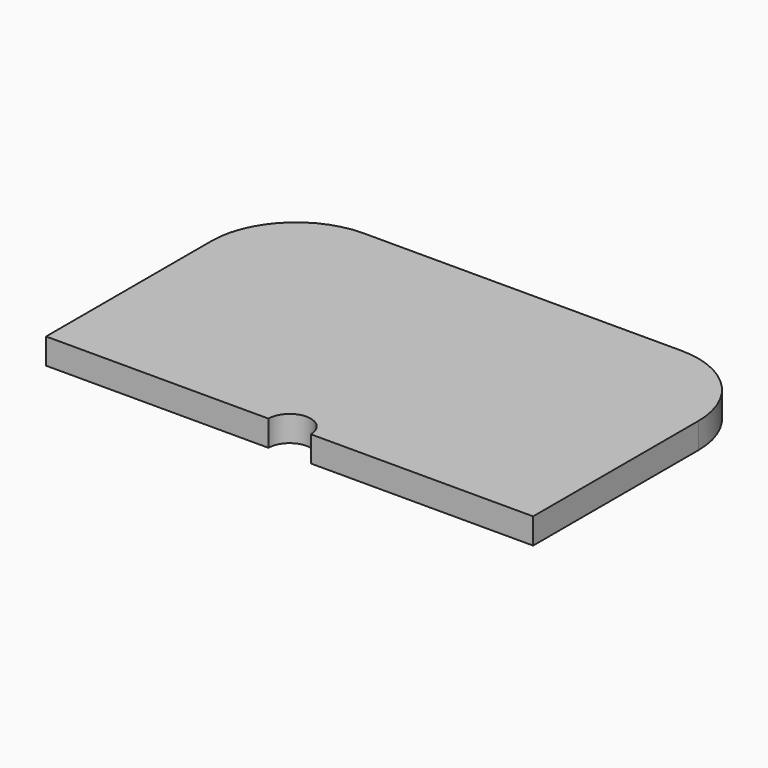
from build123d import *

# Parameters (mm, degrees)
PAD_DEPTH = 15.45


with BuildPart() as part:
    # Sketch → Pad (new body)
    with BuildSketch(Plane.XY):
        with BuildLine():
            Line((-146.05, 36.5125), (-146.05, -87.3125))
            Line((-146.05, -87.3125), (-12.7, -87.3125))
            ThreePointArc((12.7, -87.3125), (0, -74.61), (-12.7, -87.3125))
            Line((12.7, -87.3125), (146.05, -87.3075))
            Line((146.05, -87.3075), (146.05, 36.5125))
            ThreePointArc((146.05, 36.5125), (131.171024, 72.433524), (95.25, 87.3125))
            Line((95.25, 87.3125), (-95.25, 87.3125))
            ThreePointArc((-95.25, 87.3125), (-131.171024, 72.433524), (-146.05, 36.5125))
        make_face()
    extrude(amount=PAD_DEPTH)


solid = part.part
